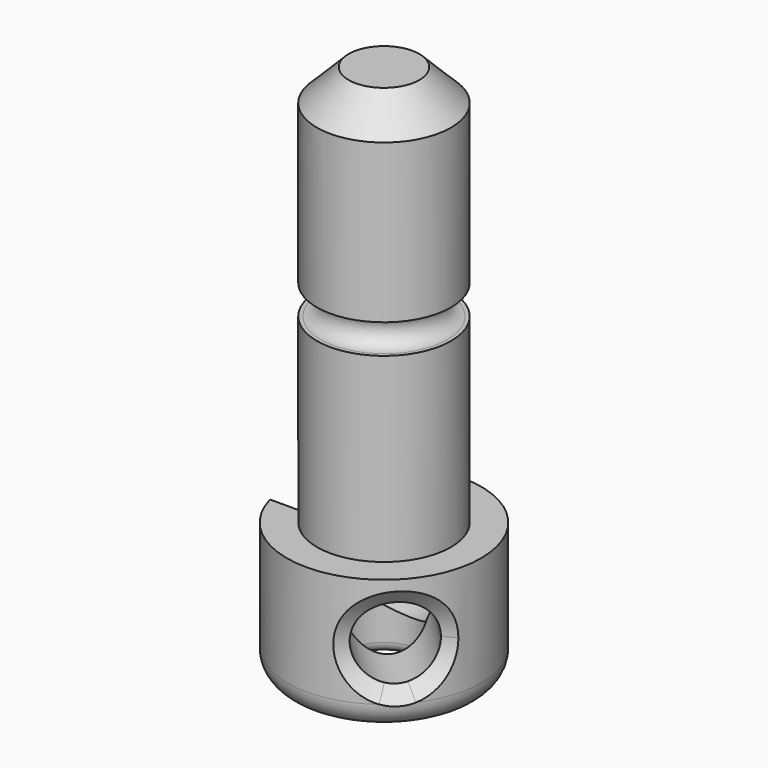
from build123d import *

# Parameters (mm, degrees)
SKETCH_R         = 4.6
PAD_DEPTH        = 6.4
SKETCH001_R      = 3.175
PAD001_DEPTH     = 19
CHAMFER_SIZE     = 1.5
FILLET_R         = 1.2
SKETCH002_R      = 1.725
POCKET_DEPTH     = 11
FILLET001_R      = 0.5
SKETCH004_R      = 1.8
POCKET001_DEPTH  = 5
POCKET002_DEPTH  = 5
SKETCH006_R      = 1.7
POCKET003_DEPTH  = 5
CHAMFER001_SIZE2 = 0.5
CHAMFER001_SIZE  = 0.7


with BuildPart() as part:
    # Sketch → Pad (new body)
    with BuildSketch(Plane.XY):
        Circle(SKETCH_R)
    extrude(amount=PAD_DEPTH)

    # Sketch001 (on Face3 of Pad) → Pad001 (join)
    with BuildSketch(Plane.XY.offset(6.4)):
        Circle(SKETCH001_R)
    extrude(amount=PAD001_DEPTH)

    # Chamfer
    chamfer_edges = [part.edges().sort_by_distance(p)[0] for p in [
        (-3.175, 0, 25.4),
    ]]
    chamfer(chamfer_edges, length=CHAMFER_SIZE)

    # Fillet
    fillet_edges = [part.edges().sort_by_distance(p)[0] for p in [
        (-4.6, 0, 0),
    ]]
    fillet(fillet_edges, radius=FILLET_R)

    # Sketch002 (on Face4 of Fillet) → Pocket (cut)
    with BuildSketch(Plane(origin=(0, 0, 0), x_dir=(1, 0, 0), z_dir=(0, 0, -1))):
        Circle(SKETCH002_R)
    extrude(amount=-POCKET_DEPTH, mode=Mode.SUBTRACT)

    # Fillet001
    fillet001_edges = [part.edges().sort_by_distance(p)[0] for p in [
        (-1.725, 0, 0),
    ]]
    fillet(fillet001_edges, radius=FILLET001_R)

    # Sketch003 → Groove (revolve, cut)
    with BuildSketch(Plane.XZ):
        with BuildLine():
            ThreePointArc((3, 16.4), (2.3, 15.7), (3, 15))
            Line((3, 15), (4.410793, 15))
            Line((4.410793, 16.4), (4.410793, 15))
            Line((3, 16.4), (4.410793, 16.4))
        make_face()
    revolve(axis=Axis((0, 0, 0), (0, 0, 1)), mode=Mode.SUBTRACT)

    # Sketch004 → Pocket001 (cut)
    with BuildSketch(Plane.XZ):
        with Locations((0, 3.5)):
            Circle(SKETCH004_R)
    extrude(amount=-POCKET001_DEPTH, mode=Mode.SUBTRACT)

    # Sketch005 → Pocket002 (cut)
    with BuildSketch(Plane.YZ.offset(-2.9)):
        with BuildLine():
            ThreePointArc((1.2, 7.7), (0, 8.9), (-1.2, 7.7))
            Line((-1.2, 7.7), (-1.2, 3.7))
            ThreePointArc((-1.2, 3.7), (0, 2.5), (1.2, 3.7))
            Line((1.2, 7.7), (1.2, 3.7))
        make_face()
    extrude(amount=-POCKET002_DEPTH, mode=Mode.SUBTRACT)

    # Sketch006 → Pocket003 (cut)
    with BuildSketch(Plane(origin=(0, 0, 0), x_dir=(0.707107, 0.707107, 0), z_dir=(0.707107, -0.707107, 0))):
        with Locations((0, 3.5)):
            Circle(SKETCH006_R)
    extrude(amount=POCKET003_DEPTH, mode=Mode.SUBTRACT)

    # Chamfer001
    chamfer001_edges = [part.edges().sort_by_distance(p)[0] for p in [
        (1.820335, -4.224498, 3.5),
        (-1.8, 4.233202, 3.5),
    ]]
    chamfer001_side = part.faces().sort_by_distance((-4.6, 0, 1.340114))[0]
    chamfer(chamfer001_edges, length=CHAMFER001_SIZE, length2=CHAMFER001_SIZE2, reference=chamfer001_side)


solid = part.part
